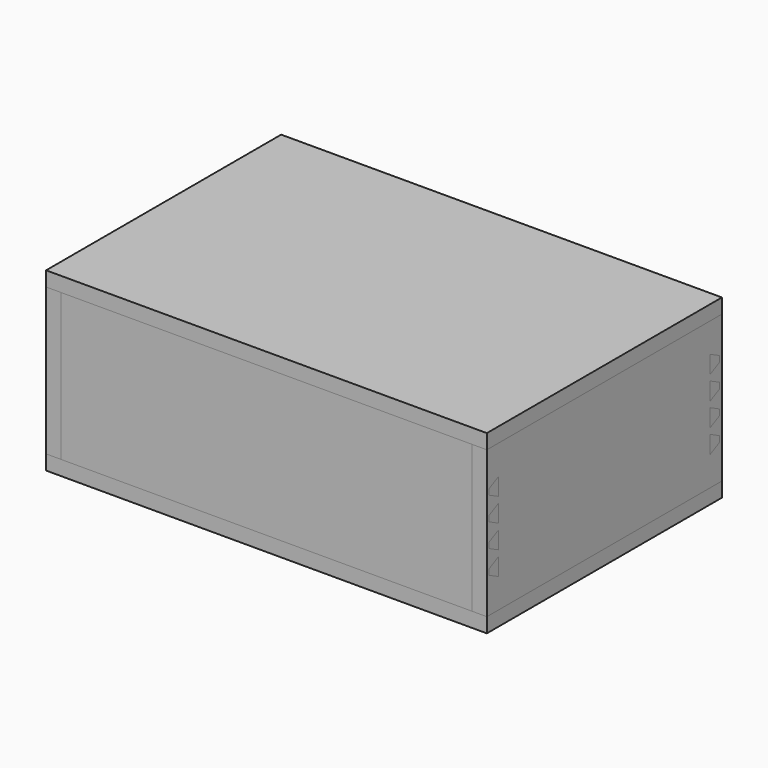
from build123d import *

# Parameters (mm, degrees)
SKETCH_W         = 300
SKETCH_H         = 200
PAD_DEPTH        = 10
ARRAY002_Z_COUNT = 2
ARRAY002_Z_PITCH = 110
PAD009_DEPTH     = 10
ARRAY005_X_COUNT = 2
ARRAY005_X_PITCH = 290
ARRAY005_Z_COUNT = 4
ARRAY005_Z_PITCH = 16
PAD008_DEPTH     = 10
ARRAY006_X_COUNT = 2
ARRAY006_X_PITCH = 290
ARRAY006_Z_COUNT = 4
ARRAY006_Z_PITCH = 16
PAD007_DEPTH     = 10
ARRAY001_X_COUNT = 2
ARRAY001_X_PITCH = 290
ARRAY001_Z_COUNT = 4
ARRAY001_Z_PITCH = 16
PAD006_DEPTH     = 10
ARRAY_X_COUNT    = 2
ARRAY_X_PITCH    = 290
ARRAY_Z_COUNT    = 4
ARRAY_Z_PITCH    = 16
SKETCH002_W      = 200
SKETCH002_H      = 100
PAD002_DEPTH     = 10
ARRAY003_X_COUNT = 2
ARRAY003_X_PITCH = 290
SKETCH010_W      = 10
SKETCH010_H      = 100
PAD010_DEPTH     = 10
ARRAY007_X_COUNT = 2
ARRAY007_X_PITCH = 290
ARRAY007_Y_COUNT = 2
ARRAY007_Y_PITCH = 190
SKETCH004_W      = 300
SKETCH004_H      = 100
PAD004_DEPTH     = 10
ARRAY004_Y_COUNT = 2
ARRAY004_Y_PITCH = 190


with BuildPart() as array_covers:
    # Sketch → Pad (new body)
    with BuildSketch(Plane.XY):
        with Locations((150, 100)):
            Rectangle(SKETCH_W, SKETCH_H)
    extrude(amount=-PAD_DEPTH)

    # Array002 Z: Array, Covers ×2


with BuildPart() as array_covers_1:
    add(array_covers.part)
    with Locations(*[(0, 0, i * ARRAY002_Z_PITCH) for i in range(1, ARRAY002_Z_COUNT)]):
        add(array_covers.part)


with BuildPart() as array_joints_dowels_front:
    # Sketch008 → Pad009 (new body)
    with BuildSketch(Plane(origin=(0, 10, 0), x_dir=(0, 1, 0), z_dir=(1, 0, 0))):
        Polygon((0, 32), (0, 20), (-8, 24), (-8, 28), align=None)
    extrude(amount=PAD009_DEPTH)

    # Array005 X: Array, Joints, Dowels, Front ×2


with BuildPart() as array_joints_dowels_front_1:
    add(array_joints_dowels_front.part)
    with Locations(*[(i * ARRAY005_X_PITCH, 0, 0) for i in range(1, ARRAY005_X_COUNT)]):
        add(array_joints_dowels_front.part)

    # Array005 Z: Array, Joints, Dowels, Front ×4


with BuildPart() as array_joints_dowels_front_2:
    add(array_joints_dowels_front_1.part)
    with Locations(*[(0, 0, i * ARRAY005_Z_PITCH) for i in range(1, ARRAY005_Z_COUNT)]):
        add(array_joints_dowels_front_1.part)


with BuildPart() as array_joints_dowels_back:
    # Sketch009 → Pad008 (new body)
    with BuildSketch(Plane.YZ):
        Polygon((0, 32), (0, 20), (8, 24), (8, 28), align=None)
    extrude(amount=PAD008_DEPTH)

    # Array006 X: Array, Joints, Dowels, Back ×2


with BuildPart() as array_joints_dowels_back_1:
    add(array_joints_dowels_back.part)
    with Locations(*[(i * ARRAY006_X_PITCH, 0, 0) for i in range(1, ARRAY006_X_COUNT)]):
        add(array_joints_dowels_back.part)

    # Array006 Z: Array, Joints, Dowels, Back ×4


with BuildPart() as array_joints_dowels_back_2:
    add(array_joints_dowels_back_1.part)
    with Locations(*[(0, 0, i * ARRAY006_Z_PITCH) for i in range(1, ARRAY006_Z_COUNT)]):
        add(array_joints_dowels_back_1.part)


with BuildPart() as array_joints_dowels_back_3:
    # Array006 placement: moved
    add(array_joints_dowels_back_2.part.moved(Location((0, 190, 0))))


with BuildPart() as array_joints_cut_front:
    # Sketch007 → Pad007 (new body)
    with BuildSketch(Plane(origin=(0, 10, 0), x_dir=(0, 1, 0), z_dir=(1, 0, 0))):
        Polygon((0, 32), (0, 20), (-8, 24), (-8, 28), align=None)
    extrude(amount=PAD007_DEPTH)

    # Array001 X: Array, Joints, Cut, Front ×2


with BuildPart() as array_joints_cut_front_1:
    add(array_joints_cut_front.part)
    with Locations(*[(i * ARRAY001_X_PITCH, 0, 0) for i in range(1, ARRAY001_X_COUNT)]):
        add(array_joints_cut_front.part)

    # Array001 Z: Array, Joints, Cut, Front ×4


with BuildPart() as array_joints_cut_front_2:
    add(array_joints_cut_front_1.part)
    with Locations(*[(0, 0, i * ARRAY001_Z_PITCH) for i in range(1, ARRAY001_Z_COUNT)]):
        add(array_joints_cut_front_1.part)


with BuildPart() as fusion:
    # Sketch006 → Pad006 (new body)
    with BuildSketch(Plane.YZ):
        Polygon((0, 32), (0, 20), (8, 24), (8, 28), align=None)
    extrude(amount=PAD006_DEPTH)

    # Array X: Fusion ×2


with BuildPart() as fusion_1:
    add(fusion.part)
    with Locations(*[(i * ARRAY_X_PITCH, 0, 0) for i in range(1, ARRAY_X_COUNT)]):
        add(fusion.part)

    # Array Z: Fusion ×4


with BuildPart() as fusion_2:
    add(fusion_1.part)
    with Locations(*[(0, 0, i * ARRAY_Z_PITCH) for i in range(1, ARRAY_Z_COUNT)]):
        add(fusion_1.part)


with BuildPart() as fusion_3:
    # Array placement: moved
    add(fusion_2.part.moved(Location((0, 190, 0))))

    # Fusion: union Array, Joints, Cut, Front
    add(array_joints_cut_front_2.part)


with BuildPart() as sides_cut:
    # Sketch002 → Pad002 (new body)
    with BuildSketch(Plane.YZ):
        with Locations((100, 50)):
            Rectangle(SKETCH002_W, SKETCH002_H)
    extrude(amount=PAD002_DEPTH)

    # Array003 X: Sides, cut ×2


with BuildPart() as sides_cut_1:
    add(sides_cut.part)
    with Locations(*[(i * ARRAY003_X_PITCH, 0, 0) for i in range(1, ARRAY003_X_COUNT)]):
        add(sides_cut.part)

    # Cut: cut Fusion
    add(fusion_3.part, mode=Mode.SUBTRACT)


with BuildPart() as array_boxcut:
    # Sketch010 → Pad010 (new body)
    with BuildSketch(Plane.YZ):
        with Locations((5, 50)):
            Rectangle(SKETCH010_W, SKETCH010_H)
    extrude(amount=PAD010_DEPTH)

    # Array007 X: Array, BoxCut ×2


with BuildPart() as array_boxcut_1:
    add(array_boxcut.part)
    with Locations(*[(i * ARRAY007_X_PITCH, 0, 0) for i in range(1, ARRAY007_X_COUNT)]):
        add(array_boxcut.part)

    # Array007 Y: Array, BoxCut ×2


with BuildPart() as array_boxcut_2:
    add(array_boxcut_1.part)
    with Locations(*[(0, i * ARRAY007_Y_PITCH, 0) for i in range(1, ARRAY007_Y_COUNT)]):
        add(array_boxcut_1.part)


with BuildPart() as fronts_cut:
    # Sketch004 → Pad004 (new body)
    with BuildSketch(Plane.XZ):
        with Locations((150, 50)):
            Rectangle(SKETCH004_W, SKETCH004_H)
    extrude(amount=-PAD004_DEPTH)

    # Array004 Y: Fronts, cut ×2


with BuildPart() as fronts_cut_1:
    add(fronts_cut.part)
    with Locations(*[(0, i * ARRAY004_Y_PITCH, 0) for i in range(1, ARRAY004_Y_COUNT)]):
        add(fronts_cut.part)

    # Cut001: cut Array, BoxCut
    add(array_boxcut_2.part, mode=Mode.SUBTRACT)


solid = Compound([array_covers_1.part, array_joints_dowels_front_2.part, array_joints_dowels_back_3.part, sides_cut_1.part, fronts_cut_1.part])
